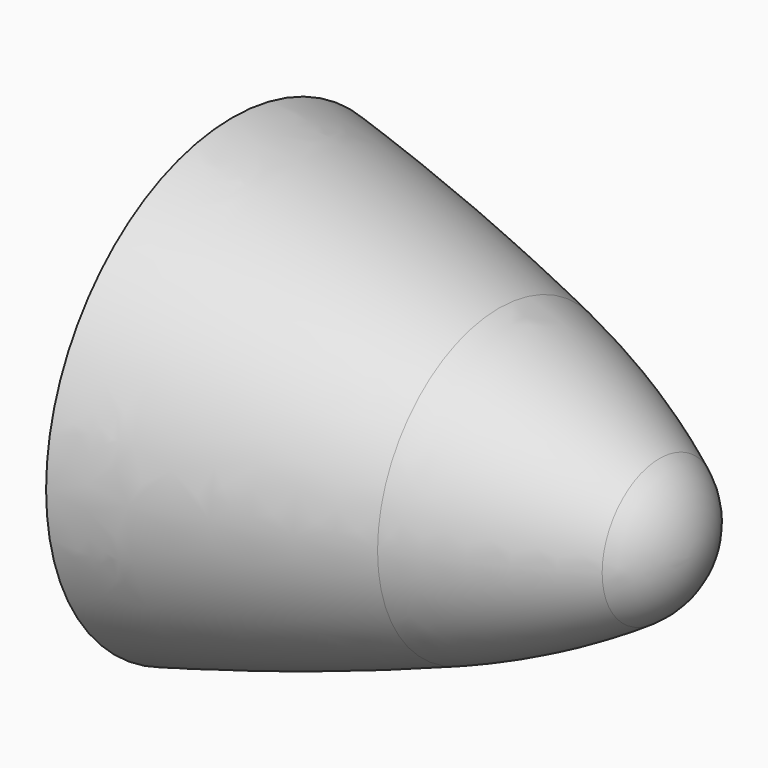
from build123d import *


with BuildPart() as f2:
    # F0 (on Top) → F2 (revolve)
    with BuildSketch(Plane.XY):
        with BuildLine():
            ThreePointArc((-43.4231416664, -33.1147542792), (-25.4, -25.4), (-8.4143115768, -15.6103392344))
            ThreePointArc((-8.4143115768, -15.6103392344), (-2.2375332055, -8.8668389283), (0, 0))
            Line((0, 0), (-101.6, 0))
            Line((-101.6, 0), (-101.6, -50.8))
            ThreePointArc((-101.6, -50.8), (-72.2898591372, -42.6867133407), (-43.4231416664, -33.1147542792))
        make_face()
    revolve(axis=Axis((0, 0, 0), (1, 0, 0)))


solid = f2.part
